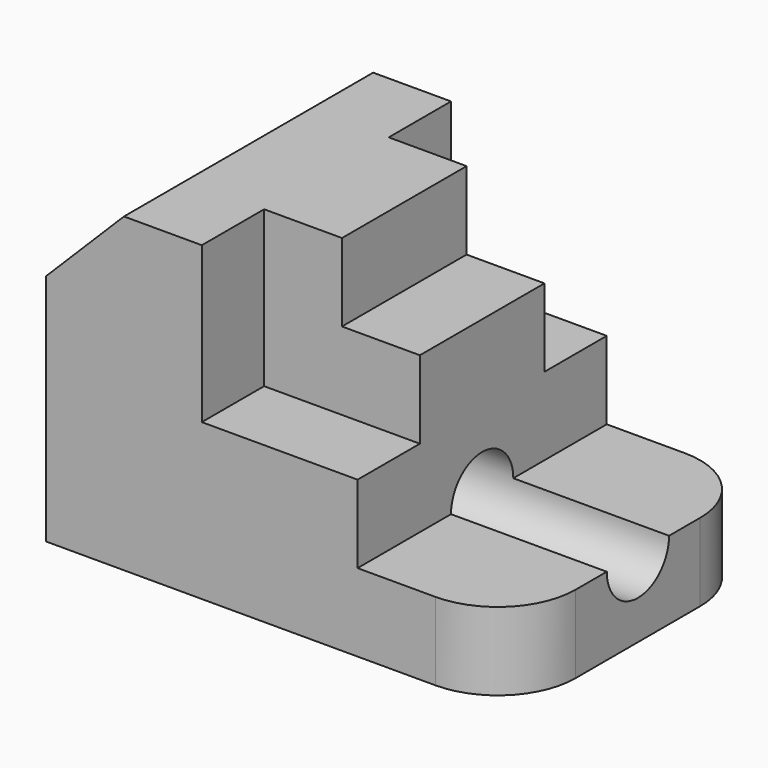
from build123d import *

# Parameters (mm, degrees)
F1_DEPTH = 50.8
F2_W     = 12.7
F2_H     = 25.4
F3_DEPTH = 25.4
F4_R     = 12.7
F5_R     = 6.35
F6_DEPTH = 76.2


with BuildPart() as f1:
    # F0 (on Front) → F1 (new body)
    with BuildSketch(Plane.XZ):
        Polygon((0, 38.1), (0, 0), (76.2, 0), (76.2, 12.7), (50.8, 12.7), (50.8, 38.1), (38.1, 38.1), (38.1, 50.8), (12.7, 50.8), align=None)
    extrude(amount=F1_DEPTH)

    # F2 (on face) → F3 (cut)
    with BuildSketch(Plane.YZ.offset(50.8)):
        with Locations((-44.45, 38.1)):
            Rectangle(F2_W, F2_H)
        with Locations((-6.35, 38.1)):
            Rectangle(F2_W, F2_H)
    extrude(amount=-F3_DEPTH, mode=Mode.SUBTRACT)

    # F4
    f4_edges = [f1.edges().sort_by_distance(p)[0] for p in [
        (76.2, 0, 6.35),
        (76.2, -50.8, 6.35),
    ]]
    fillet(f4_edges, radius=F4_R)

    # F5 (on face) → F6 (cut)
    with BuildSketch(Plane.YZ.offset(76.2)):
        with Locations((-25.4, 12.7)):
            Circle(F5_R)
    extrude(amount=-F6_DEPTH, mode=Mode.SUBTRACT)


solid = f1.part
